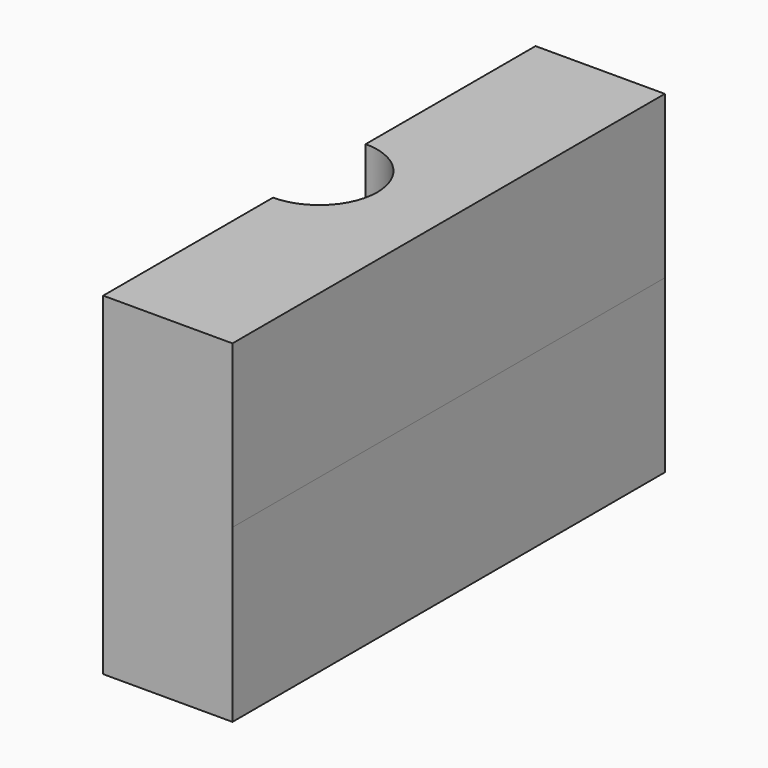
from build123d import *

# Parameters (mm, degrees)
F1_DEPTH = 32.319695
F2_DEPTH = 30.560179


with BuildPart() as f1:
    # F0 (on Top) → F1 (new body)
    with BuildSketch(Plane.XY):
        with BuildLine():
            Line((12.195908, -50.985828), (12.195908, 50.985828))
            Line((12.195908, 50.985828), (-12.195908, 50.985828))
            Line((-12.195908, 50.985828), (-12.195908, 10.927692))
            ThreePointArc((-12.195908, 10.927692), (-4.468863, 7.727045), (-1.268216, 0))
            ThreePointArc((-1.268216, 0), (-4.468863, -7.727045), (-12.195908, -10.927692))
            Line((-12.195908, -10.927692), (-12.195908, -50.985828))
            Line((-12.195908, -50.985828), (12.195908, -50.985828))
        make_face()
    extrude(amount=-F1_DEPTH)

    # F1_face (on face) → F2 (join)
    with BuildSketch(Plane(origin=(0.616475, 0, 0), x_dir=(1, 0, 0), z_dir=(0, 0, 1))):
        with BuildLine():
            Line((-12.812383, -10.927692), (-12.812383, -50.985828))
            Line((-12.812383, -50.985828), (11.579432, -50.985828))
            Line((11.579432, -50.985828), (11.579432, 50.985828))
            Line((11.579432, 50.985828), (-12.812383, 50.985828))
            Line((-12.812383, 50.985828), (-12.812383, 10.927692))
            ThreePointArc((-12.812383, 10.927692), (-1.884691, 0), (-12.812383, -10.927692))
        make_face()
    extrude(amount=F2_DEPTH)


solid = f1.part
